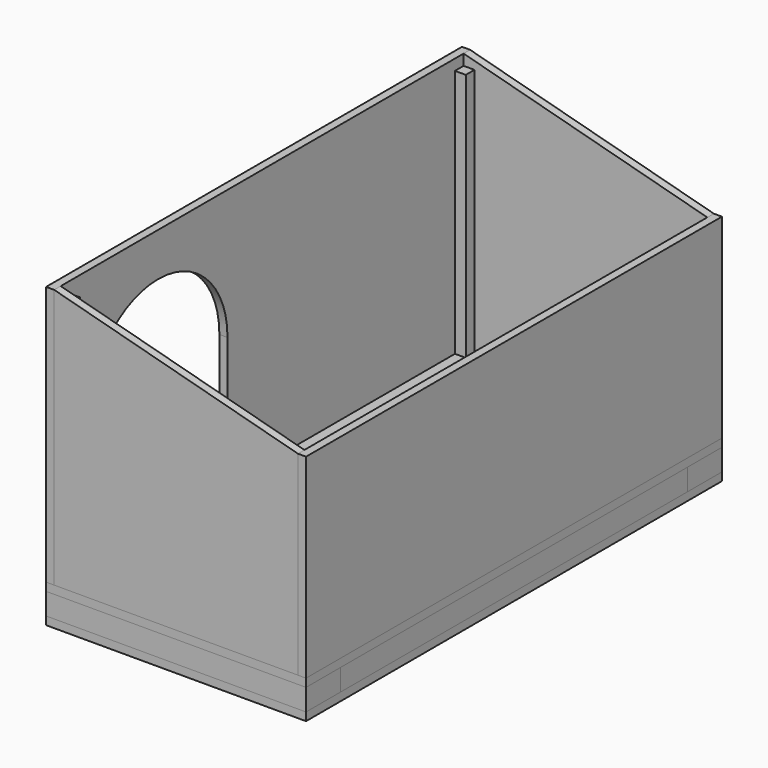
from build123d import *

# Parameters (mm, degrees)
F0_W      = 609.6
F0_H      = 1219.2
F1_DEPTH  = 19.05
F2_W      = 609.6
F2_H      = 101.6
F3_DEPTH  = 50.8
F5_W      = 101.6
F5_H      = 1016
F6_DEPTH  = 50.8
F7_W      = 101.6
F7_H      = 1016
F8_DEPTH  = 50.8
F10_DEPTH = 19.05
F11_W     = 1219.2
F11_H     = 609.6
F12_DEPTH = 19.05
F13_W     = 571.5
F13_H     = 457.2
F14_DEPTH = 19.05
F16_W     = 1219.2
F16_H     = 457.2
F17_DEPTH = 19.05
F18_W     = 25.4
F18_H     = 25.4
F19_DEPTH = 584.2
F20_W     = 25.4
F20_H     = 25.4
F21_DEPTH = 431.8
F23_DEPTH = 19.05


with BuildPart() as f1:
    # F0 (on Top) → F1 (new body)
    with BuildSketch(Plane.XY):
        with Locations((2.6372357175, 0)):
            Rectangle(F0_W, F0_H)
    extrude(amount=-F1_DEPTH)


with BuildPart() as f3:
    # F2 (on face) → F3 (new body)
    with BuildSketch(Plane.XY):
        with Locations((2.6372357175, -558.8)):
            Rectangle(F2_W, F2_H)
    extrude(amount=F3_DEPTH)


with BuildPart() as f4_1:
    # F4: instance of F3
    add(f3.part.mirror(Plane.XZ))


with BuildPart() as f6:
    # F5 (on face) → F6 (new body)
    with BuildSketch(Plane.XY):
        with Locations((256.6372357175, 0)):
            Rectangle(F5_W, F5_H)
    extrude(amount=F6_DEPTH)


with BuildPart() as f8:
    # F7 (on face) → F8 (new body)
    with BuildSketch(Plane.XY):
        with Locations((-251.3627642825, 0)):
            Rectangle(F7_W, F7_H)
    extrude(amount=F8_DEPTH)


with BuildPart() as f10:
    # F9 (on face) → F10 (new body)
    with BuildSketch(Plane.XY.offset(50.8)):
        Polygon((-302.1627642825, 609.6), (-302.1627642825, 508), (-302.1627642825, -609.6), (307.4372357175, -609.6), (307.4372357175, 609.6), align=None)
    extrude(amount=F10_DEPTH)


with BuildPart() as f12:
    # F11 (on face) → F12 (new body)
    with BuildSketch(Plane(origin=(-302.1627642825, 0, 0), x_dir=(0, -1, 0), z_dir=(-1, 0, 0))):
        with Locations((0, 374.65)):
            Rectangle(F11_W, F11_H)
    extrude(amount=-F12_DEPTH)

    # F22 (on face) → F23 (cut, through all)
    with BuildSketch(Plane(origin=(-302.1627642825, 0, 0), x_dir=(0, -1, 0), z_dir=(-1, 0, 0))):
        with BuildLine():
            Line((101.6, 69.85), (508, 69.85))
            Line((508, 69.85), (508, 374.65))
            ThreePointArc((508, 374.65), (304.8, 171.45), (101.6, 374.65))
            Line((101.6, 374.65), (101.6, 69.85))
        make_face()
        with BuildLine():
            ThreePointArc((101.6, 374.65), (304.8, 171.45), (508, 374.65))
            Line((508, 374.65), (101.6, 374.65))
        make_face()
        with BuildLine():
            Line((101.6, 374.65), (508, 374.65))
            ThreePointArc((508, 374.65), (304.8, 577.85), (101.6, 374.65))
        make_face()
    extrude(amount=-F23_DEPTH, mode=Mode.SUBTRACT)


with BuildPart() as f14:
    # F13 (on face) → F14 (new body)
    with BuildSketch(Plane.XZ.offset(609.6)):
        with Locations((2.6372357175, 298.45)):
            Rectangle(F13_W, F13_H)
        Polygon((-283.1127642825, 679.45), (-283.1127642825, 527.05), (288.3872357175, 527.05), align=None)
    extrude(amount=-F14_DEPTH)


with BuildPart() as f15_1:
    # F15: instance of F14
    add(f14.part.mirror(Plane.XZ))


with BuildPart() as f17:
    # F16 (on face) → F17 (new body)
    with BuildSketch(Plane.YZ.offset(307.4372357175)):
        with Locations((0, 298.45)):
            Rectangle(F16_W, F16_H)
    extrude(amount=-F17_DEPTH)


with BuildPart() as f19:
    # F18 (on face) → F19 (new body)
    with BuildSketch(Plane.XY.offset(69.85)):
        with Locations((-270.4127642825, 577.85)):
            Rectangle(F18_W, F18_H)
    extrude(amount=F19_DEPTH)


with BuildPart() as f19b:
    # F18 (on face) → F19, piece 2 (new body)
    with BuildSketch(Plane.XY.offset(69.85)):
        with Locations((-270.4127642825, -577.85)):
            Rectangle(F18_W, F18_H)
    extrude(amount=F19_DEPTH)


with BuildPart() as f21:
    # F20 (on face) → F21 (new body)
    with BuildSketch(Plane.XY.offset(69.85)):
        with Locations((275.6872357175, 577.85)):
            Rectangle(F20_W, F20_H)
    extrude(amount=F21_DEPTH)


with BuildPart() as f21b:
    # F20 (on face) → F21, piece 2 (new body)
    with BuildSketch(Plane.XY.offset(69.85)):
        with Locations((275.6872357175, -577.85)):
            Rectangle(F20_W, F20_H)
    extrude(amount=F21_DEPTH)


solid = Compound([f1.part, f3.part, f4_1.part, f6.part, f8.part, f10.part, f12.part, f14.part, f15_1.part, f17.part, f19.part, f19b.part, f21.part, f21b.part])
